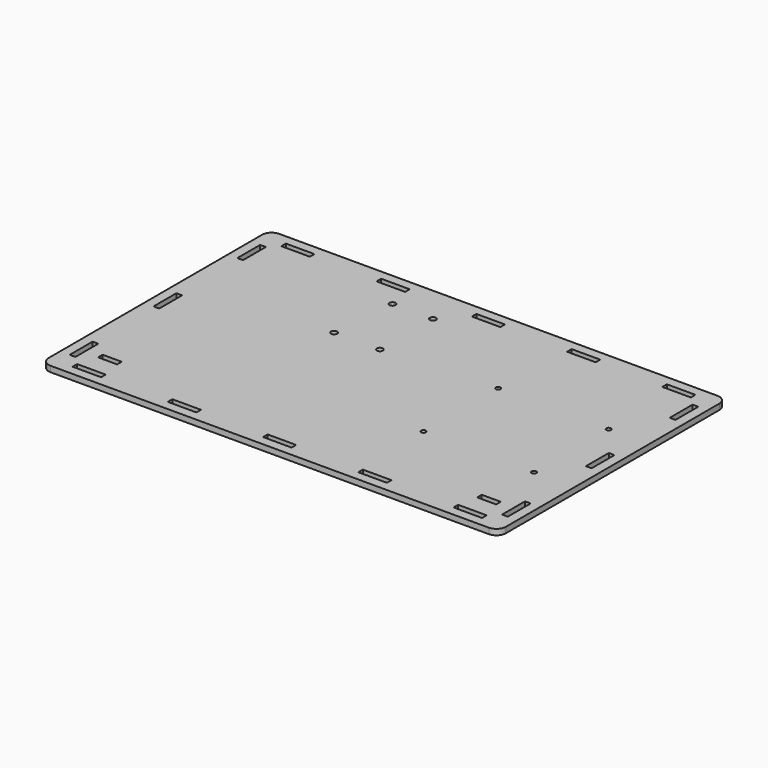
from build123d import *

# Parameters (mm, degrees)
F0_W     = 15
F0_H     = 3
F0_W_2   = 3
F0_H_2   = 15
F0_W_3   = 10
F0_R     = 1.25
F0_R_2   = 1.6
F1_DEPTH = 3


with BuildPart() as f1:
    # F0 (on Top) → F1 (new body)
    with BuildSketch(Plane.XY):
        with BuildLine():
            ThreePointArc((120, 70), (118.535534, 73.535534), (115, 75))
            Line((115, 75), (-115, 75))
            ThreePointArc((-115, 75), (-118.535534, 73.535534), (-120, 70))
            Line((-120, 70), (-120, -70))
            ThreePointArc((-120, -70), (-118.535534, -73.535534), (-115, -75))
            Line((-115, -75), (115, -75))
            ThreePointArc((115, -75), (118.535534, -73.535534), (120, -70))
            Line((120, -70), (120, 70))
        make_face()
        with Locations((-100, -68.5)):
            Rectangle(F0_W, F0_H, mode=Mode.SUBTRACT)
        with Locations((-113.5, -55)):
            Rectangle(F0_W_2, F0_H_2, mode=Mode.SUBTRACT)
        with Locations((-99.5, -55.5)):
            Rectangle(F0_W_3, F0_H, mode=Mode.SUBTRACT)
        with Locations((-50, -68.5)):
            Rectangle(F0_W, F0_H, mode=Mode.SUBTRACT)
        with Locations((0, -68.5)):
            Rectangle(F0_W, F0_H, mode=Mode.SUBTRACT)
        with Locations((50, -68.5)):
            Rectangle(F0_W, F0_H, mode=Mode.SUBTRACT)
        with Locations((100, -68.5)):
            Rectangle(F0_W, F0_H, mode=Mode.SUBTRACT)
        with Locations((99.5, -55.5)):
            Rectangle(F0_W_3, F0_H, mode=Mode.SUBTRACT)
        with Locations((113.5, -55)):
            Rectangle(F0_W_2, F0_H_2, mode=Mode.SUBTRACT)
        with Locations((40.75, -25)):
            Circle(F0_R, mode=Mode.SUBTRACT)
        with Locations((98.75, -25)):
            Circle(F0_R, mode=Mode.SUBTRACT)
        with Locations((-113.5, 0)):
            Rectangle(F0_W_2, F0_H_2, mode=Mode.SUBTRACT)
        with Locations((-42.662954, 20.6)):
            Circle(F0_R_2, mode=Mode.SUBTRACT)
        with Locations((-18.662954, 20.6)):
            Circle(F0_R_2, mode=Mode.SUBTRACT)
        with Locations((-113.5, 55)):
            Rectangle(F0_W_2, F0_H_2, mode=Mode.SUBTRACT)
        with Locations((-100, 68.5)):
            Rectangle(F0_W, F0_H, mode=Mode.SUBTRACT)
        with Locations((-39.862954, 55.4)):
            Circle(F0_R_2, mode=Mode.SUBTRACT)
        with Locations((-18.662954, 55.4)):
            Circle(F0_R_2, mode=Mode.SUBTRACT)
        with Locations((-50, 68.5)):
            Rectangle(F0_W, F0_H, mode=Mode.SUBTRACT)
        with Locations((40.75, 24)):
            Circle(F0_R, mode=Mode.SUBTRACT)
        with Locations((113.5, 0)):
            Rectangle(F0_W_2, F0_H_2, mode=Mode.SUBTRACT)
        with Locations((98.75, 24)):
            Circle(F0_R, mode=Mode.SUBTRACT)
        with Locations((0, 68.5)):
            Rectangle(F0_W, F0_H, mode=Mode.SUBTRACT)
        with Locations((50, 68.5)):
            Rectangle(F0_W, F0_H, mode=Mode.SUBTRACT)
        with Locations((113.5, 55)):
            Rectangle(F0_W_2, F0_H_2, mode=Mode.SUBTRACT)
        with Locations((100, 68.5)):
            Rectangle(F0_W, F0_H, mode=Mode.SUBTRACT)
    extrude(amount=F1_DEPTH)


solid = f1.part
